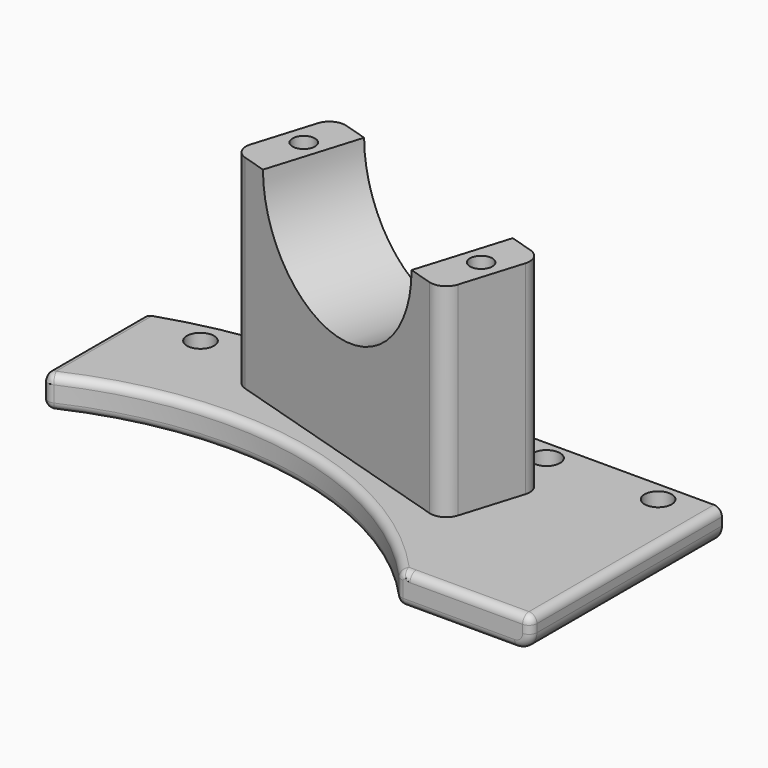
from build123d import *

# Parameters (mm, degrees)
PAD_DEPTH       = 4
PAD001_DEPTH    = 25.5
SKETCH002_R     = 12.9
POCKET_DEPTH    = 36.8669197108
FILLET_R        = 2
FILLET001_R     = 1
FILLET002_R     = 1
FILLET003_R     = 1
SKETCH003_R     = 1.4
POCKET001_DEPTH = 12
SKETCH004_R     = 1.7
POCKET002_DEPTH = 4.0010001
FILLET004_R     = 2
FILLET005_R     = 1


with BuildPart() as part:
    # Sketch → Pad (new body)
    with BuildSketch(Plane.XY):
        with BuildLine():
            Line((33.5410196625, 30), (50, 30))
            Line((50, 30), (50, 60))
            Line((0, 60), (50, 60))
            ThreePointArc((0, 60), (-10.1461187235, 59.1359135792), (-20, 56.5685424949))
            Line((-20, 40.3112887415), (-20, 56.5685424949))
            ThreePointArc((33.5410196625, 30), (8.5100218715, 44.1880020792), (-20, 40.3112887415))
        make_face()
    extrude(amount=PAD_DEPTH)

    # Sketch001 → Pad001 (new body)
    with BuildSketch(Plane.XY.offset(4)):
        Polygon((-0.671183324, 62.6409760428), (33.7557878907, 52.1155946728), (30.247327434, 40.6399376012), (-4.1796437807, 51.1653189712), align=None)
    extrude(amount=PAD001_DEPTH)

    # Sketch002 → Pocket (cut, through all)
    with BuildSketch(Plane(origin=(17.4568210696, 57.098688906, 0), x_dir=(-0.956304756, 0.2923717047, 0), z_dir=(0.2923717047, 0.956304756, 0))):
        with Locations((0.956304756, 29.5)):
            Circle(SKETCH002_R)
    extrude(amount=-POCKET_DEPTH, mode=Mode.SUBTRACT)

    # Fillet
    fillet_edges = [part.edges().sort_by_distance(p)[0] for p in [
        (50, 45, 0),
    ]]
    fillet(fillet_edges, radius=FILLET_R)

    # Fillet001
    fillet001_edges = [part.edges().sort_by_distance(p)[0] for p in [
        (-20, 48.439916, 4),
    ]]
    fillet(fillet001_edges, radius=FILLET001_R)

    # Fillet002
    fillet002_edges = [part.edges().sort_by_distance(p)[0] for p in [
        (9.054169, 44.079724, 4),
    ]]
    fillet(fillet002_edges, radius=FILLET002_R)

    # Fillet003
    fillet003_edges = [part.edges().sort_by_distance(p)[0] for p in [
        (42.435596, 30, 4),
    ]]
    fillet(fillet003_edges, radius=FILLET003_R)

    # Sketch003 → Pocket001 (cut)
    with BuildSketch(Plane.XY.offset(29.5)):
        with Locations((0.2205096629, 56.6647829722)):
            Circle(SKETCH003_R)
        with Locations((29.6746961465, 47.6597344667)):
            Circle(SKETCH003_R)
    extrude(amount=-POCKET001_DEPTH, mode=Mode.SUBTRACT)

    # Sketch004 → Pocket002 (cut, through all)
    with BuildSketch(Plane.XY.offset(4)):
        with Locations((44, 57.5)):
            Circle(SKETCH004_R)
        with Locations((-12, 55.75)):
            Circle(SKETCH004_R)
        with Locations((30, 57.5)):
            Circle(SKETCH004_R)
    extrude(amount=-POCKET002_DEPTH, mode=Mode.SUBTRACT)

    # Fillet004
    fillet004_edges = [part.edges().sort_by_distance(p)[0] for p in [
        (-0.671183, 62.640976, 16.75),
        (33.755788, 52.115595, 16.75),
        (30.247327, 40.639938, 16.75),
        (-4.179644, 51.165319, 16.75),
    ]]
    fillet(fillet004_edges, radius=FILLET004_R)

    # Fillet005
    fillet005_edges = [part.edges().sort_by_distance(p)[0] for p in [
        (50, 45.5, 4),
    ]]
    fillet(fillet005_edges, radius=FILLET005_R)


solid = part.part
